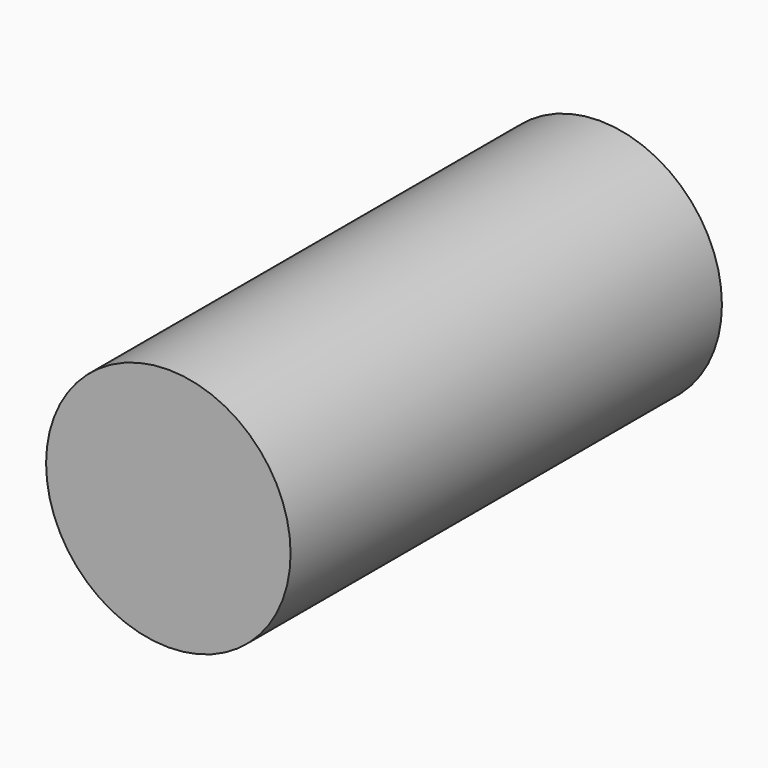
from build123d import *

# Parameters (mm, degrees)
F0_R          = 1.439889
F1_DEPTH      = 3.175
F1_DEPTH_BACK = 3.175


with BuildPart() as f1:
    # F0 (on Front) → F1 (new body, two sides)
    with BuildSketch(Plane.XZ) as f1_sk:
        with Locations((-5.539618, 5.121212)):
            Circle(F0_R)
    extrude(amount=F1_DEPTH)
    extrude(f1_sk.sketch, amount=-F1_DEPTH_BACK)


solid = f1.part
